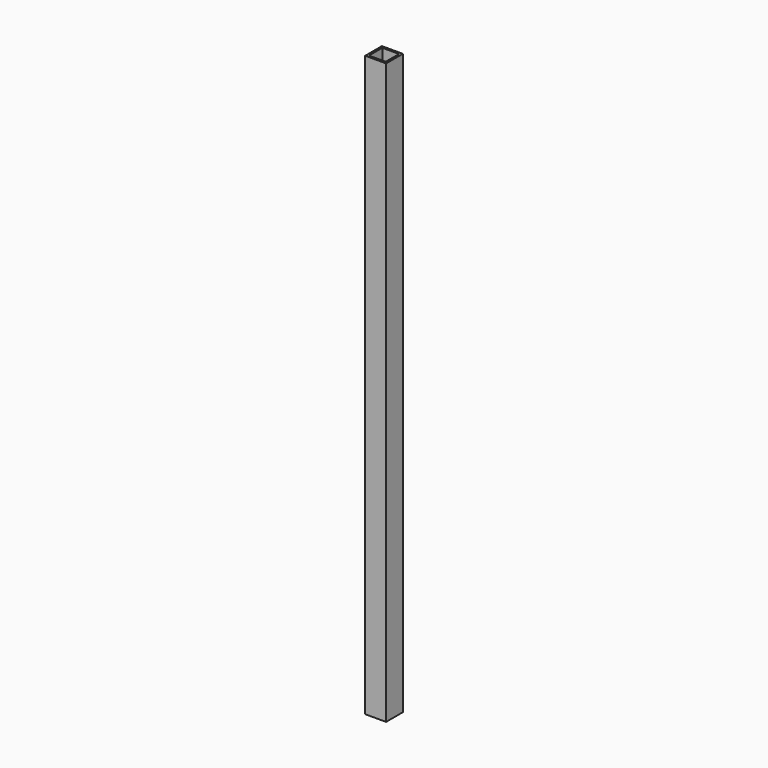
from build123d import *

# Parameters (mm, degrees)
SKETCH_W   = 15
SKETCH_H   = 15
SKETCH_W_2 = 12
SKETCH_H_2 = 12
PAD_DEPTH  = 416


with BuildPart() as part:
    # Sketch → Pad (new body)
    with BuildSketch(Plane.XY):
        Rectangle(SKETCH_W, SKETCH_H)
        Rectangle(SKETCH_W_2, SKETCH_H_2, mode=Mode.SUBTRACT)
    extrude(amount=PAD_DEPTH)


solid = part.part
